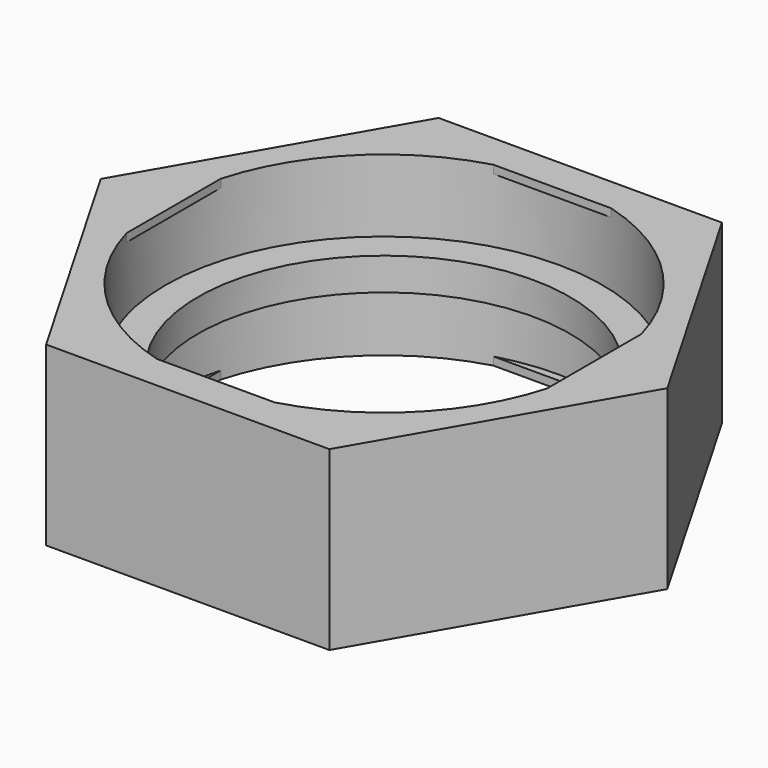
from build123d import *

# Parameters (mm, degrees)
SKETCH001_R      = 40.5
EXTRUDE011_DEPTH = 32.8
EXTRUDE010_DEPTH = 32.8
SKETCH006_R      = 34.5
EXTRUDE009_DEPTH = 6
SKETCH005_R      = 40.5
EXTRUDE008_DEPTH = 6
EXTRUDE005_DEPTH = 1.5
EXTRUDE006_DEPTH = 1.5
EXTRUDE007_DEPTH = 1.5
EXTRUDE004_DEPTH = 1.5
EXTRUDE001_DEPTH = 1.5
EXTRUDE002_DEPTH = 1.5
EXTRUDE003_DEPTH = 1.5
EXTRUDE_DEPTH    = 1.5


with BuildPart() as lid_extrude:
    # Sketch001 (on Sketch) → Extrude011 (new body)
    with BuildSketch(Plane.XY):
        Circle(SKETCH001_R)
    extrude(amount=EXTRUDE011_DEPTH)


with BuildPart() as body:
    # Sketch → Extrude010 (new body)
    with BuildSketch(Plane.XY):
        Polygon((52.540416, 0), (26.270208, 45.501335), (-26.270208, 45.501335), (-52.540416, 0), (-26.270208, -45.501335), (26.270208, -45.501335), align=None)
    extrude(amount=EXTRUDE010_DEPTH)

    # Cut001: cut lid_extrude
    add(lid_extrude.part, mode=Mode.SUBTRACT)


with BuildPart() as lid_divider_in_extrude:
    # Sketch006 → Extrude009 (new body)
    with BuildSketch(Plane.XY):
        Circle(SKETCH006_R)
    extrude(amount=EXTRUDE009_DEPTH)


with BuildPart() as body_divider_fuse:
    # Sketch005 → Extrude008 (new body)
    with BuildSketch(Plane.XY):
        Circle(SKETCH005_R)
    extrude(amount=EXTRUDE008_DEPTH)

    # Cut: cut lid_divider_in_extrude
    add(lid_divider_in_extrude.part, mode=Mode.SUBTRACT)


with BuildPart() as body_divider_fuse_1:
    # Cut placement: moved
    add(body_divider_fuse.part.moved(Location((0, 0, 13.4))))

    # Fusion: union body
    add(body.part)


with BuildPart() as top_teeth1_extrude:
    # MirroredSketch004 → Extrude005 (new body)
    with BuildSketch(Plane.XY):
        with BuildLine():
            Line((10.920165, -39), (-10.920165, -39))
            ThreePointArc((-10.920165, -39), (0, -40.5), (10.920165, -39))
        make_face()
    extrude(amount=EXTRUDE005_DEPTH)


with BuildPart() as top_teeth2_extrude:
    # Sketch007 → Extrude006 (new body)
    with BuildSketch(Plane.XY):
        with BuildLine():
            Line((-39, 10.920165), (-39, -10.920165))
            ThreePointArc((-39, 10.920165), (-40.5, 0), (-39, -10.920165))
        make_face()
    extrude(amount=EXTRUDE006_DEPTH)


with BuildPart() as top_teeth3_extrude:
    # MirroredSketch005 → Extrude007 (new body)
    with BuildSketch(Plane.XY):
        with BuildLine():
            Line((39, -10.920165), (39, 10.920165))
            ThreePointArc((39, -10.920165), (40.5, 0), (39, 10.920165))
        make_face()
    extrude(amount=EXTRUDE007_DEPTH)


with BuildPart() as body_top_teeth_fuse:
    # MirroredSketch003 → Extrude004 (new body)
    with BuildSketch(Plane.XY):
        with BuildLine():
            Line((-10.920165, 39), (10.920165, 39))
            ThreePointArc((10.920165, 39), (0, 40.5), (-10.920165, 39))
        make_face()
    extrude(amount=EXTRUDE004_DEPTH)

    # Compound001: union top_teeth1_extrude, top_teeth2_extrude, top_teeth3_extrude
    add(top_teeth1_extrude.part)
    add(top_teeth2_extrude.part)
    add(top_teeth3_extrude.part)


with BuildPart() as body_top_teeth_fuse_1:
    # Compound001 placement: moved
    add(body_top_teeth_fuse.part.moved(Location((0, 0, 31.3))))

    # Fusion001: union body_divider_fuse
    add(body_divider_fuse_1.part)


with BuildPart() as bottom_teeth1_extrude:
    # MirroredSketch002 → Extrude001 (new body)
    with BuildSketch(Plane.XY):
        with BuildLine():
            Line((-10.920165, 39), (10.920165, 39))
            ThreePointArc((10.920165, 39), (0, 40.5), (-10.920165, 39))
        make_face()
    extrude(amount=EXTRUDE001_DEPTH)


with BuildPart() as bottom_teeth2_extrude:
    # MirroredSketch → Extrude002 (new body)
    with BuildSketch(Plane.XY):
        with BuildLine():
            Line((10.920165, -39), (-10.920165, -39))
            ThreePointArc((-10.920165, -39), (0, -40.5), (10.920165, -39))
        make_face()
    extrude(amount=EXTRUDE002_DEPTH)


with BuildPart() as bottom_teeth3_extrude:
    # Sketch003 → Extrude003 (new body)
    with BuildSketch(Plane.XY):
        with BuildLine():
            Line((-39, 10.920165), (-39, -10.920165))
            ThreePointArc((-39, 10.920165), (-40.5, 0), (-39, -10.920165))
        make_face()
    extrude(amount=EXTRUDE003_DEPTH)


with BuildPart() as body_bottom_teeth_fuse:
    # MirroredSketch001 → Extrude (new body)
    with BuildSketch(Plane.XY):
        with BuildLine():
            Line((39, -10.920165), (39, 10.920165))
            ThreePointArc((39, -10.920165), (40.5, 0), (39, 10.920165))
        make_face()
    extrude(amount=EXTRUDE_DEPTH)

    # Compound: union bottom_teeth1_extrude, bottom_teeth2_extrude, bottom_teeth3_extrude
    add(bottom_teeth1_extrude.part)
    add(bottom_teeth2_extrude.part)
    add(bottom_teeth3_extrude.part)

    # Fusion002: union body_top_teeth_fuse
    add(body_top_teeth_fuse_1.part)


solid = body_bottom_teeth_fuse.part
